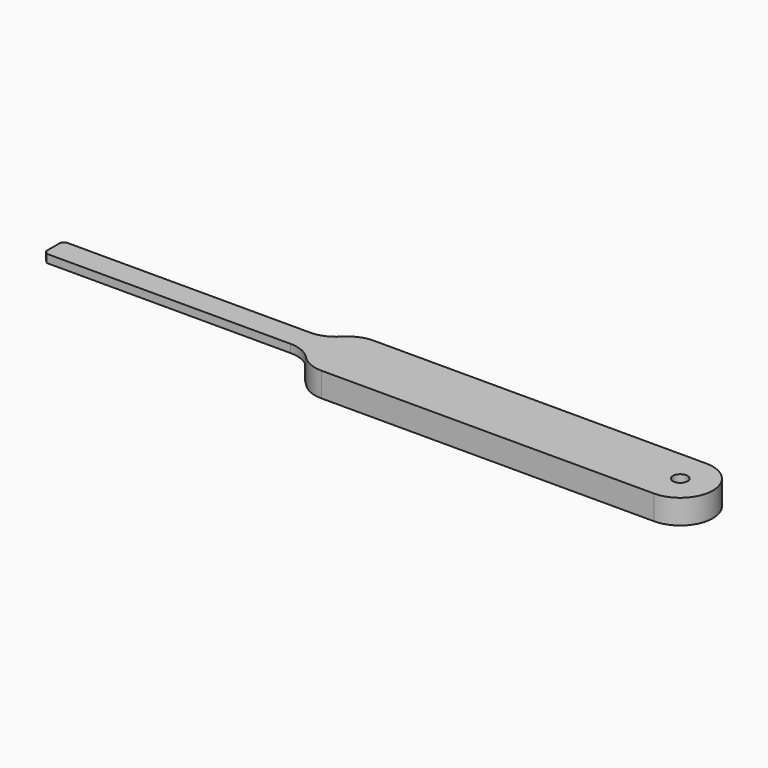
from build123d import *

# Parameters (mm, degrees)
F0_W     = 80
F0_H     = 7.5
F0_R     = 2.25
F1_DEPTH = 2.5
F2_DEPTH = 5
F3_SIZE  = 1
F4_R     = 10
F5_R     = 5


with BuildPart() as f1:
    # F0 (on Top) → F1 (new body)
    with BuildSketch(Plane.XY):
        Rectangle(F0_W, F0_H)
        with BuildLine():
            Line((46.25, 10), (40, 3.75))
            Line((40, 3.75), (40, -3.75))
            Line((40, -3.75), (46.25, -10))
            Line((46.25, -10), (152.5, -10))
            ThreePointArc((152.5, -10), (162.5, 0), (152.5, 10))
            Line((152.5, 10), (46.25, 10))
        make_face()
        with Locations((152.5, 0)):
            Circle(F0_R, mode=Mode.SUBTRACT)
    extrude(amount=F1_DEPTH)

    # F0 (on Top) → F2 (join)
    with BuildSketch(Plane.XY):
        with BuildLine():
            Line((46.25, 10), (40, 3.75))
            Line((40, 3.75), (40, -3.75))
            Line((40, -3.75), (46.25, -10))
            Line((46.25, -10), (152.5, -10))
            ThreePointArc((152.5, -10), (162.5, 0), (152.5, 10))
            Line((152.5, 10), (46.25, 10))
        make_face()
        with Locations((152.5, 0)):
            Circle(F0_R, mode=Mode.SUBTRACT)
    extrude(amount=-F2_DEPTH)

    # F3
    f3_edges = [f1.edges().sort_by_distance(p)[0] for p in [
        (-40, -3.75, 1.25),
        (-40, 3.75, 1.25),
    ]]
    chamfer(f3_edges, length=F3_SIZE)

    # F4
    f4_edges = [f1.edges().sort_by_distance(p)[0] for p in [
        (40, -3.75, 1.25),
        (46.25, -10, -1.25),
        (46.25, 10, -1.25),
        (40, 3.75, 1.25),
    ]]
    fillet(f4_edges, radius=F4_R)

    # F5
    f5_edges = [f1.edges().sort_by_distance(p)[0] for p in [
        (40, -3.75, -2.5),
        (40, 3.75, -2.5),
    ]]
    fillet(f5_edges, radius=F5_R)


solid = f1.part
